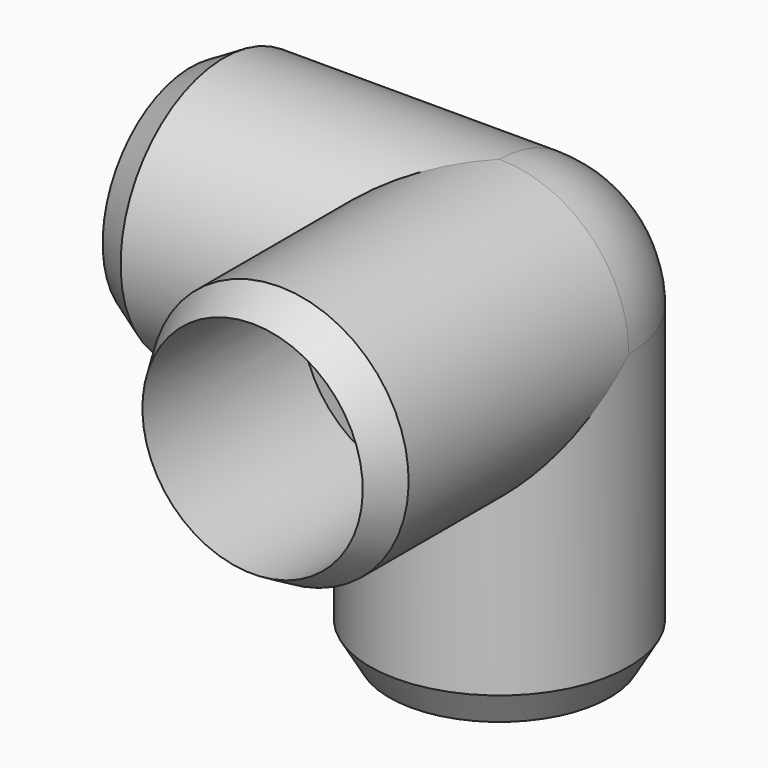
from build123d import *


with BuildPart() as f3:
    # F0 (on Right) → F3 (revolve)
    with BuildSketch(Plane.YZ):
        with BuildLine():
            Line((-52.6758568757, 24.765), (-59.055, 21.082))
            Line((-59.055, 21.082), (-20.955, 21.082))
            Line((-20.955, 21.082), (-20.955, 15.875))
            Line((-20.955, 15.875), (0, 15.875))
            ThreePointArc((0, 15.875), (11.2253201513, 11.2253201513), (15.875, 0))
            Line((15.875, 0), (24.765, 0))
            ThreePointArc((24.765, 0), (17.5114994361, 17.5114994361), (0, 24.765))
            Line((0, 24.765), (-52.6758568757, 24.765))
        make_face()
        with BuildLine():
            Line((-20.955, 21.082), (-59.055, 21.082))
            Line((-59.055, 21.082), (-59.055, 0))
            Line((-59.055, 0), (0, 0))
            Line((0, 0), (10.5189766587, 0))
            Line((10.5189766587, 0), (15.875, 0))
            ThreePointArc((15.875, 0), (11.2253201513, 11.2253201513), (0, 15.875))
            Line((0, 15.875), (-20.955, 15.875))
            Line((-20.955, 15.875), (-20.955, 21.082))
        make_face()
    revolve(axis=Axis((0, -21.59, 0), (0, 1, 0)))

    # F1 (on Right) → F4 (revolve)
    with BuildSketch(Plane.YZ):
        with BuildLine():
            Line((-24.765, -52.6758568757), (-21.082, -59.055))
            Line((-21.082, -59.055), (-21.082, -20.955))
            Line((-21.082, -20.955), (-15.875, -20.955))
            Line((-15.875, -20.955), (-15.875, 0))
            ThreePointArc((-15.875, 0), (-11.2253201513, 11.2253201513), (0, 15.875))
            Line((0, 15.875), (0, 24.765))
            ThreePointArc((0, 24.765), (-17.5114994361, 17.5114994361), (-24.765, 0))
            Line((-24.765, 0), (-24.765, -52.6758568757))
        make_face()
        with BuildLine():
            Line((-21.082, -20.955), (-21.082, -59.055))
            Line((-21.082, -59.055), (0, -59.055))
            Line((0, -59.055), (0, 0))
            Line((0, 0), (0, 15.875))
            ThreePointArc((0, 15.875), (-11.2253201513, 11.2253201513), (-15.875, 0))
            Line((-15.875, 0), (-15.875, -20.955))
            Line((-15.875, -20.955), (-21.082, -20.955))
        make_face()
    revolve(axis=Axis((0, 0, -21.59), (0, 0, 1)))

    # F2 (on Top) → F5 (revolve)
    with BuildSketch(Plane.XY):
        with BuildLine():
            Line((-52.6758568757, 24.765), (-59.055, 21.082))
            Line((-59.055, 21.082), (-20.955, 21.082))
            Line((-20.955, 21.082), (-20.955, 15.875))
            Line((-20.955, 15.875), (0, 15.875))
            ThreePointArc((0, 15.875), (11.2253201513, 11.2253201513), (15.875, 0))
            Line((15.875, 0), (24.765, 0))
            ThreePointArc((24.765, 0), (17.5114994361, 17.5114994361), (0, 24.765))
            Line((0, 24.765), (-52.6758568757, 24.765))
        make_face()
        with BuildLine():
            Line((-20.955, 21.082), (-59.055, 21.082))
            Line((-59.055, 21.082), (-59.055, 0))
            Line((-59.055, 0), (-12.5608257832, 0))
            Line((-12.5608257832, 0), (0, 0))
            Line((0, 0), (15.875, 0))
            ThreePointArc((15.875, 0), (11.2253201513, 11.2253201513), (0, 15.875))
            Line((0, 15.875), (-20.955, 15.875))
            Line((-20.955, 15.875), (-20.955, 21.082))
        make_face()
    revolve(axis=Axis((-21.59, 0, 0), (1, 0, 0)))

    # F0 (on Right) → F6 (revolve, cut)
    with BuildSketch(Plane.YZ):
        with BuildLine():
            Line((-20.955, 21.082), (-59.055, 21.082))
            Line((-59.055, 21.082), (-59.055, 0))
            Line((-59.055, 0), (0, 0))
            Line((0, 0), (10.5189766587, 0))
            Line((10.5189766587, 0), (15.875, 0))
            ThreePointArc((15.875, 0), (11.2253201513, 11.2253201513), (0, 15.875))
            Line((0, 15.875), (-20.955, 15.875))
            Line((-20.955, 15.875), (-20.955, 21.082))
        make_face()
    revolve(axis=Axis((0, -21.59, 0), (0, 1, 0)), mode=Mode.SUBTRACT)

    # F1 (on Right) → F7 (revolve, cut)
    with BuildSketch(Plane.YZ):
        with BuildLine():
            Line((-21.082, -20.955), (-21.082, -59.055))
            Line((-21.082, -59.055), (0, -59.055))
            Line((0, -59.055), (0, 0))
            Line((0, 0), (0, 15.875))
            ThreePointArc((0, 15.875), (-11.2253201513, 11.2253201513), (-15.875, 0))
            Line((-15.875, 0), (-15.875, -20.955))
            Line((-15.875, -20.955), (-21.082, -20.955))
        make_face()
    revolve(axis=Axis((0, 0, -21.59), (0, 0, 1)), mode=Mode.SUBTRACT)

    # F2 (on Top) → F8 (revolve, cut)
    with BuildSketch(Plane.XY):
        with BuildLine():
            Line((-20.955, 21.082), (-59.055, 21.082))
            Line((-59.055, 21.082), (-59.055, 0))
            Line((-59.055, 0), (-12.5608257832, 0))
            Line((-12.5608257832, 0), (0, 0))
            Line((0, 0), (15.875, 0))
            ThreePointArc((15.875, 0), (11.2253201513, 11.2253201513), (0, 15.875))
            Line((0, 15.875), (-20.955, 15.875))
            Line((-20.955, 15.875), (-20.955, 21.082))
        make_face()
    revolve(axis=Axis((-21.59, 0, 0), (1, 0, 0)), mode=Mode.SUBTRACT)


solid = f3.part
